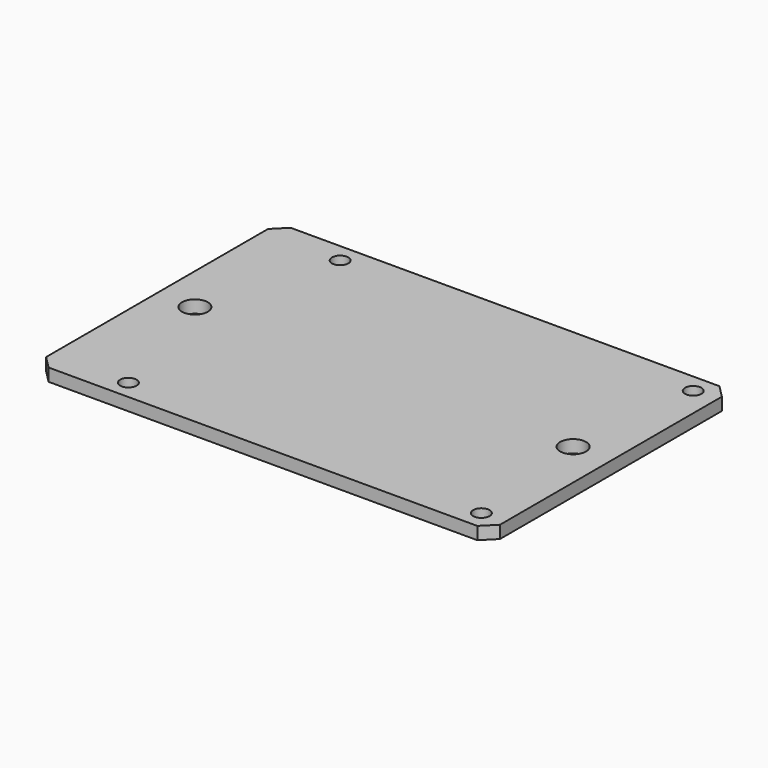
from build123d import *

# Parameters (mm, degrees)
F0_W     = 72
F0_H     = 48
F0_R     = 1.3
F1_DEPTH = 2
F2_SIZE  = 2
F3_R     = 2.05
F4_DEPTH = 25


with BuildPart() as f1:
    # F0 (on Top) → F1 (new body)
    with BuildSketch(Plane.XY):
        Rectangle(F0_W, F0_H)
        with Locations((-23.75, -21)):
            Circle(F0_R, mode=Mode.SUBTRACT)
        with Locations((32.25, -21)):
            Circle(F0_R, mode=Mode.SUBTRACT)
        with Locations((-23.75, 21)):
            Circle(F0_R, mode=Mode.SUBTRACT)
        with Locations((32.25, 21)):
            Circle(F0_R, mode=Mode.SUBTRACT)
    extrude(amount=F1_DEPTH)

    # F2
    f2_edges = [f1.edges().sort_by_distance(p)[0] for p in [
        (-36, -24, 1),
        (36, -24, 1),
        (36, 24, 1),
        (-36, 24, 1),
    ]]
    chamfer(f2_edges, length=F2_SIZE)

    # F3 (on face) → F4 (cut)
    with BuildSketch(Plane.XY.offset(2)):
        with Locations((-30, 0)):
            Circle(F3_R)
        with Locations((30, 0)):
            Circle(F3_R)
    extrude(amount=-F4_DEPTH, mode=Mode.SUBTRACT)


solid = f1.part
